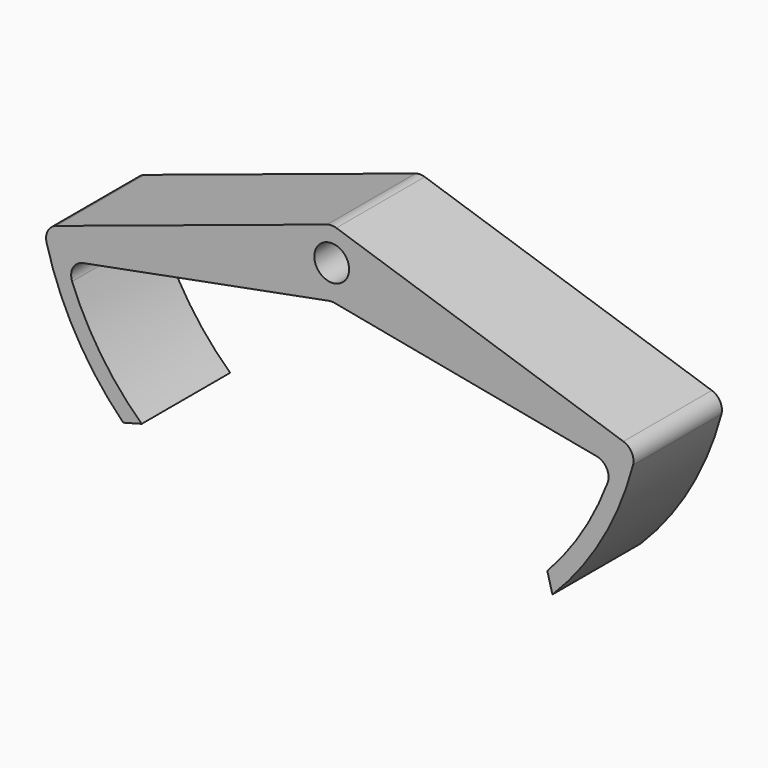
from build123d import *

# Parameters (mm, degrees)
F0_R     = 1.5
F1_DEPTH = 9.525


with BuildPart() as f1:
    # F0 (on Front) → F1 (new body)
    with BuildSketch(Plane.XZ):
        with BuildLine():
            ThreePointArc((-23.738718, 16.318255), (-24.456905, 15.718727), (-24.569644, 14.790009))
            ThreePointArc((-24.569644, 14.790009), (-22.031242, 8.590899), (-17.960512, 3.270972))
            Line((-17.960512, 3.270972), (-16.372831, 3.69639))
            ThreePointArc((-16.372831, 3.69639), (-19.867293, 7.783815), (-22.363528, 12.546916))
            ThreePointArc((-22.363528, 12.546916), (-22.290283, 13.622624), (-21.416546, 14.254366))
            Line((-21.416546, 14.254366), (-0.236884, 18.275427))
            ThreePointArc((-0.236884, 18.275427), (0, 18.297714), (0.236884, 18.275427))
            Line((0.236884, 18.275427), (22.823263, 13.987294))
            ThreePointArc((22.823263, 13.987294), (23.693662, 13.361533), (23.775135, 12.29264))
            ThreePointArc((23.775135, 12.29264), (21.586693, 7.845869), (18.576384, 3.908726))
            Line((18.576384, 3.908726), (19.017746, 2.261541))
            ThreePointArc((19.017746, 2.261541), (23.283505, 7.837014), (25.95894, 14.327365))
            ThreePointArc((25.95894, 14.327365), (25.848423, 15.258457), (25.129163, 15.859962))
            Line((25.129163, 15.859962), (0.397556, 24.011533))
            ThreePointArc((0.397556, 24.011533), (0, 24.075362), (-0.397556, 24.011533))
            Line((-0.397556, 24.011533), (-23.738718, 16.318255))
        make_face()
        with Locations((0, 21.231484)):
            Circle(F0_R, mode=Mode.SUBTRACT)
    extrude(amount=F1_DEPTH)


solid = f1.part
